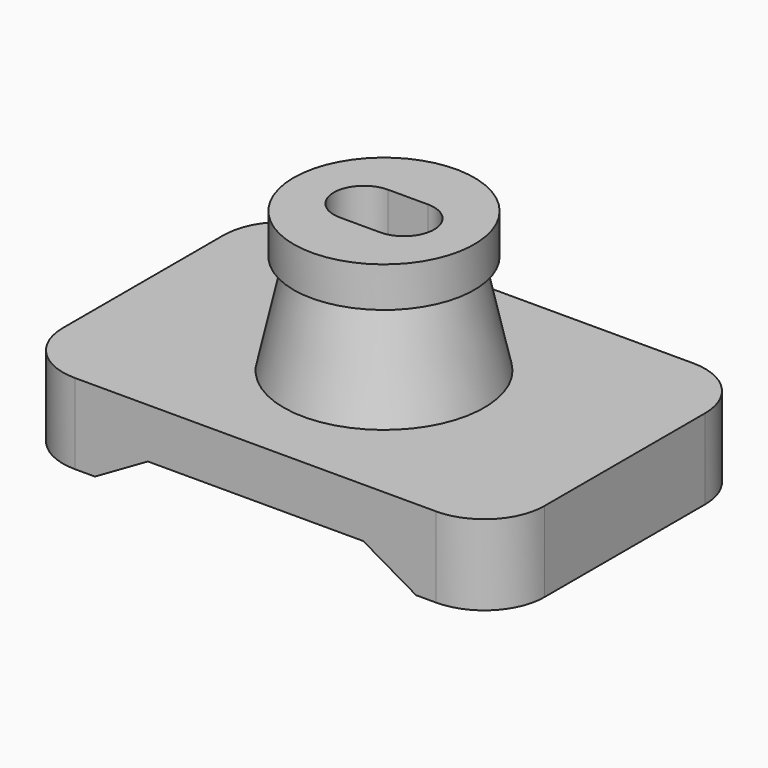
from build123d import *

# Parameters (mm, degrees)
PAD_DEPTH         = 1
POCKET_DEPTH      = 4.001
POCKET_DEPTH_BACK = -0.001
POCKET001_DEPTH   = 2.751


with BuildPart() as part:
    # Sketch (on XY_Plane of Origin) → Pad (new body)
    with BuildSketch(Plane.XY):
        with BuildLine():
            Line((-3, 1.25), (-3, -1.25))
            ThreePointArc((-3, -1.25), (-2.78033, -1.78033), (-2.25, -2))
            Line((-2.25, -2), (2.25, -2))
            ThreePointArc((2.25, -2), (2.78033, -1.78033), (3, -1.25))
            Line((3, -1.25), (3, 1.25))
            ThreePointArc((3, 1.25), (2.78033, 1.78033), (2.25, 2))
            Line((2.25, 2), (-2.25, 2))
            ThreePointArc((-2.25, 2), (-2.78033, 1.78033), (-3, 1.25))
        make_face()
    extrude(amount=PAD_DEPTH)

    # Sketch001 (on Face3 of Pad) → Pocket (cut, two sides)
    with BuildSketch(Plane.XZ.offset(2)) as pocket_sk:
        Polygon((-2, 0), (-1.341821, 0.38), (1.341821, 0.38), (2, 0), align=None)
    extrude(amount=-POCKET_DEPTH, mode=Mode.SUBTRACT)
    extrude(pocket_sk.sketch, amount=-POCKET_DEPTH_BACK, mode=Mode.SUBTRACT)

    # Sketch002 (on XZ_Plane of Origin) → Revolution (revolve)
    with BuildSketch(Plane.XZ):
        Polygon((0, 1), (0, 2.75), (-1.125, 2.75), (-1.125, 2.25), (-0.972882, 2.25), (-1.25, 1), align=None)
    revolve(axis=Axis((0, 0, 0), (0, 0, 1)))

    # Sketch003 (on Face1 of Revolution) → Pocket001 (cut, through all)
    with BuildSketch(Plane.XY.offset(2.75)):
        with BuildLine():
            ThreePointArc((-0.25, 0.375), (-0.625, 0), (-0.25, -0.375))
            Line((-0.25, -0.375), (0.25, -0.375))
            ThreePointArc((0.25, -0.375), (0.625, 0), (0.25, 0.375))
            Line((-0.25, 0.375), (0.25, 0.375))
        make_face()
    extrude(amount=-POCKET001_DEPTH, mode=Mode.SUBTRACT)


solid = part.part
